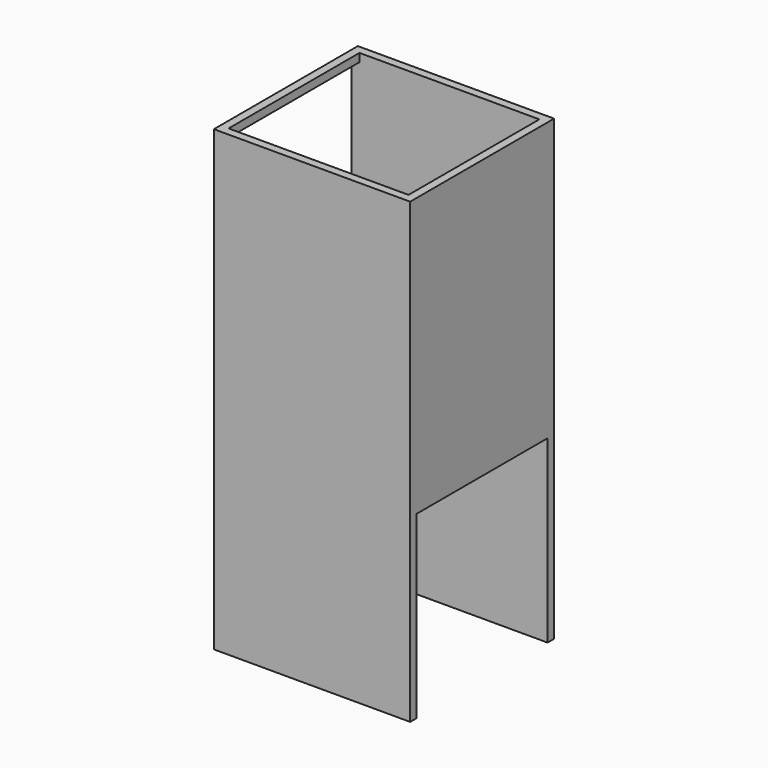
from build123d import *

# Parameters (mm, degrees)
F0_W     = 12
F0_H     = 11
F0_W_2   = 11
F0_H_2   = 10
F1_DEPTH = 28
F2_W     = 10
F2_H     = 11
F3_DEPTH = 2
F4_W     = 10
F4_H     = 11
F5_DEPTH = 2


with BuildPart() as f1:
    # F0 (on Top) → F1 (new body)
    with BuildSketch(Plane.XY):
        with Locations((-1.675564, -2.512802)):
            Rectangle(F0_W, F0_H)
        with Locations((-1.675564, -2.512802)):
            Rectangle(F0_W_2, F0_H_2, mode=Mode.SUBTRACT)
    extrude(amount=F1_DEPTH)

    # F2 (on face) → F3 (cut)
    with BuildSketch(Plane.YZ.offset(4.324436)):
        with Locations((-2.512802, 5.5)):
            Rectangle(F2_W, F2_H)
    extrude(amount=-F3_DEPTH, mode=Mode.SUBTRACT)

    # F4 (on face) → F5 (cut)
    with BuildSketch(Plane(origin=(-7.675564, 0, 0), x_dir=(0, -1, 0), z_dir=(-1, 0, 0))):
        with Locations((2.512802, 22)):
            Rectangle(F4_W, F4_H)
    extrude(amount=-F5_DEPTH, mode=Mode.SUBTRACT)


solid = f1.part
